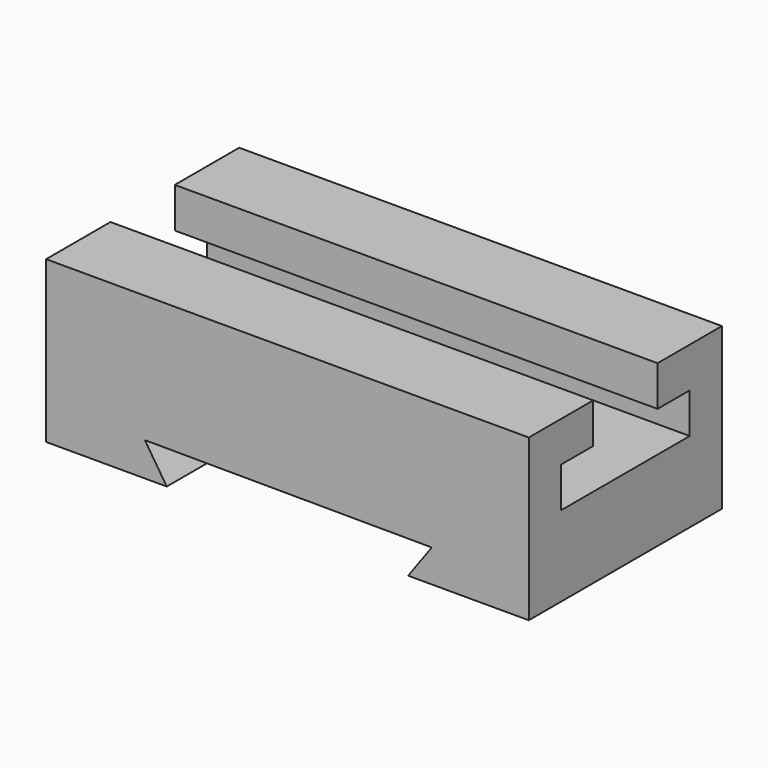
from build123d import *

# Parameters (mm, degrees)
F1_DEPTH = 152.4
F3_DEPTH = 76.2


with BuildPart() as f1:
    # F0 (on Right) → F1 (new body)
    with BuildSketch(Plane.YZ):
        Polygon((-76.2, -24.989765), (-76.2, -75.789765), (0, -75.789765), (0, -24.989765), (-25.4, -24.989765), (-25.4, -37.689765), (-12.7, -37.689765), (-12.7, -50.389765), (-63.5, -50.389765), (-63.5, -37.689765), (-50.8, -37.689765), (-50.8, -24.989765), align=None)
    extrude(amount=-F1_DEPTH)

    # F2 (on face) → F3 (cut, through all)
    with BuildSketch(Plane.XZ.offset(76.2)):
        Polygon((-121.210861, -65.134719), (-114.3, -75.789765), (-38.1, -75.789765), (-30.632577, -65.517102), align=None)
    extrude(amount=-F3_DEPTH, mode=Mode.SUBTRACT)


solid = f1.part
